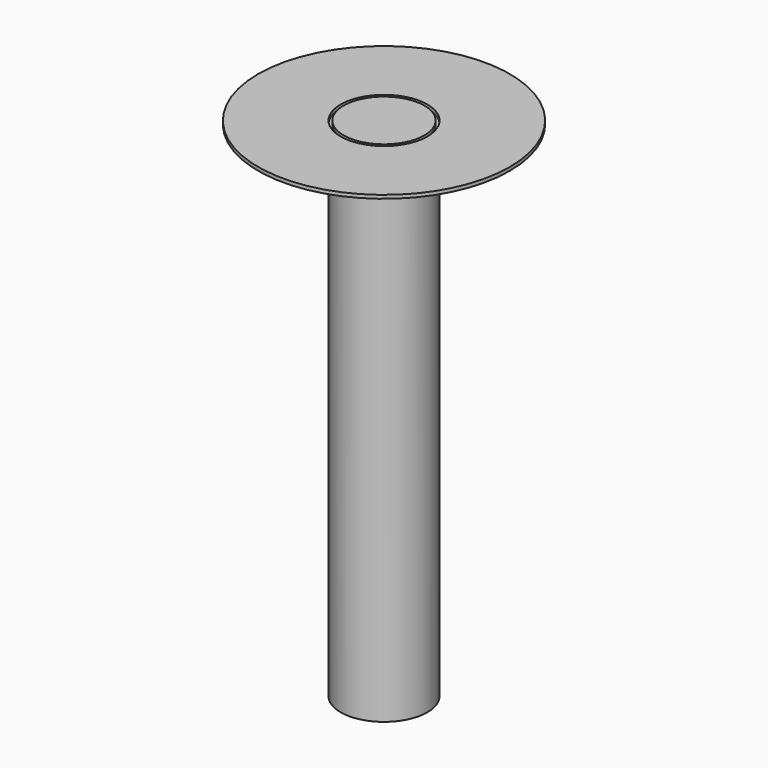
from build123d import *

# Parameters (mm, degrees)
F0_R     = 6.35
F1_DEPTH = 73.66
F2_R     = 18.415
F2_R_2   = 6.35
F2_R_3   = 5.902703
F3_DEPTH = 0.508


with BuildPart() as f1:
    # F0 (on Top) → F1 (new body)
    with BuildSketch(Plane.XY):
        Circle(F0_R)
    extrude(amount=F1_DEPTH)


with BuildPart() as f3:
    # F2 (on face) → F3 (new body)
    with BuildSketch(Plane.XY.offset(73.66)):
        Circle(F2_R)
        Circle(F2_R_2, mode=Mode.SUBTRACT)
        Circle(F2_R_3)
    extrude(amount=F3_DEPTH)


solid = Compound([f1.part, f3.part])
